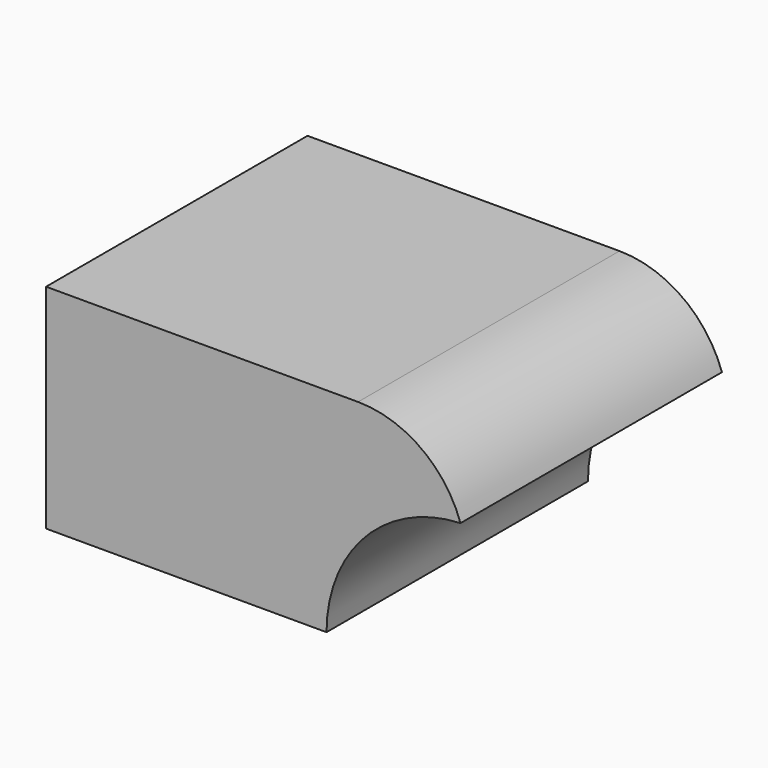
from build123d import *

# Parameters (mm, degrees)
F0_W     = 57.15
F0_H     = 28.970775
F1_DEPTH = 44.45
F2_R     = 14.717046
F3_R     = 19.003724
F4_DEPTH = 66.548
F5_T     = -2.54
F6_W     = 14.110848
F6_H     = 44.45
F6_R     = 2.9464
F7_DEPTH = 3.81


with BuildPart() as f1:
    # F0 (on Front) → F1 (new body)
    with BuildSketch(Plane.XZ):
        with Locations((-28.575, 14.485387)):
            Rectangle(F0_W, F0_H)
    extrude(amount=F1_DEPTH)

    # F2
    f2_edges = [f1.edges().sort_by_distance(p)[0] for p in [
        (0, -22.225, 28.970775),
    ]]
    fillet(f2_edges, radius=F2_R)

    # F3 (on Front) → F4 (cut)
    with BuildSketch(Plane.XZ):
        Circle(F3_R)
    extrude(amount=F4_DEPTH, mode=Mode.SUBTRACT)

    # F5
    f5_openings = [f1.faces().sort_by_distance(p)[0] for p in [
        (-38.076862, -22.225, 0),
    ]]
    offset(amount=F5_T, openings=f5_openings)

    # F6 (on face) → F7 (join)
    with BuildSketch(Plane(origin=(0, 0, 0), x_dir=(1, 0, 0), z_dir=(0, 0, -1))):
        with Locations((-36.744211, 22.225)):
            Rectangle(F6_W, F6_H)
        with Locations((-36.744211, 22.225)):
            Circle(F6_R, mode=Mode.SUBTRACT)
    extrude(amount=-F7_DEPTH)


solid = f1.part
